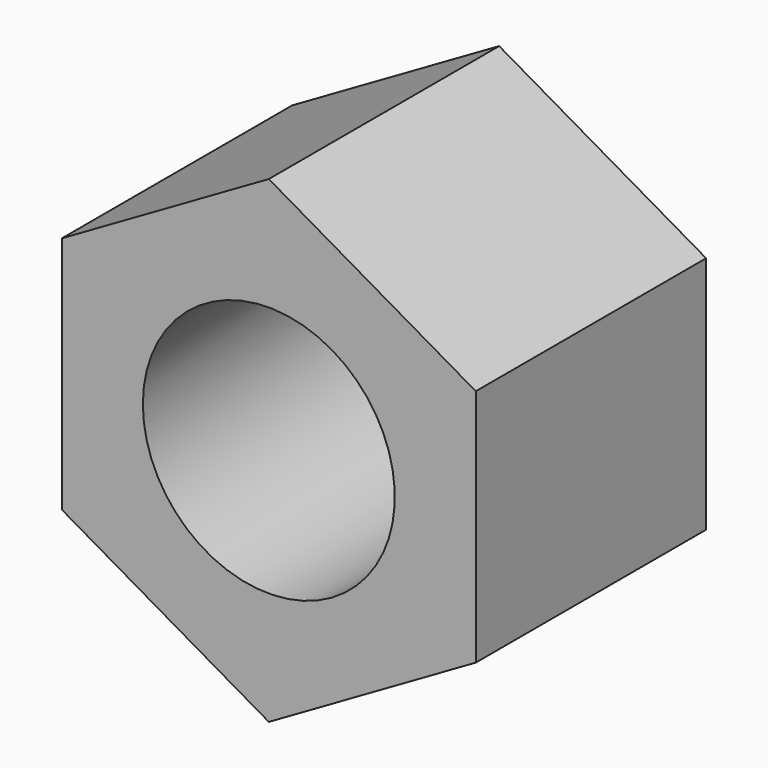
from build123d import *

# Parameters (mm, degrees)
F1_DEPTH = 25.4
F3_D     = 22.225


with BuildPart() as f1:
    # F0 (on Front) → F1 (new body)
    with BuildSketch(Plane.XZ):
        Polygon((18.25625, -10.540251), (18.25625, 10.540251), (0, 21.080502), (-18.25625, 10.540251), (-18.25625, -10.540251), (0, -21.080502), align=None)
    extrude(amount=F1_DEPTH)

    # F3 (through all)
    with Locations(Plane.XZ.offset(25.4)):
        with Locations((0, 0)):
            Hole(F3_D / 2)


solid = f1.part
